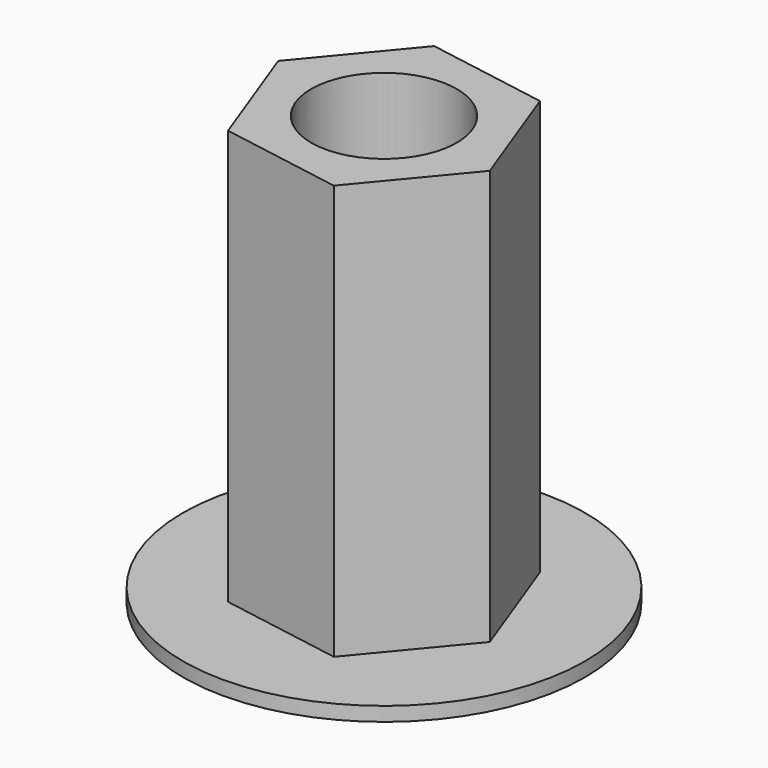
from build123d import *

# Parameters (mm, degrees)
F1_DEPTH = 96.52
F0_R     = 45.239836
F2_DEPTH = 3.175
F4_D     = 32.766


with BuildPart() as f1:
    # F0 (on Top) → F1 (new body)
    with BuildSketch(Plane.XY):
        Polygon((27.57971, -4.723722), (17.880718, 21.522868), (-9.698991, 26.24659), (-27.57971, 4.723722), (-17.880718, -21.522868), (9.698991, -26.24659), align=None)
    extrude(amount=F1_DEPTH)

    # F0 (on Top) → F2 (join)
    with BuildSketch(Plane.XY):
        Circle(F0_R)
        Polygon((-9.698991, 26.24659), (17.880718, 21.522868), (27.57971, -4.723722), (9.698991, -26.24659), (-17.880718, -21.522868), (-27.57971, 4.723722), align=None, mode=Mode.SUBTRACT)
    extrude(amount=F2_DEPTH)

    # F4 (through all)
    with Locations(Plane(origin=(0, 0, 0), x_dir=(1, 0, 0), z_dir=(0, 0, -1))):
        with Locations((0, 0)):
            Hole(F4_D / 2)


solid = f1.part
